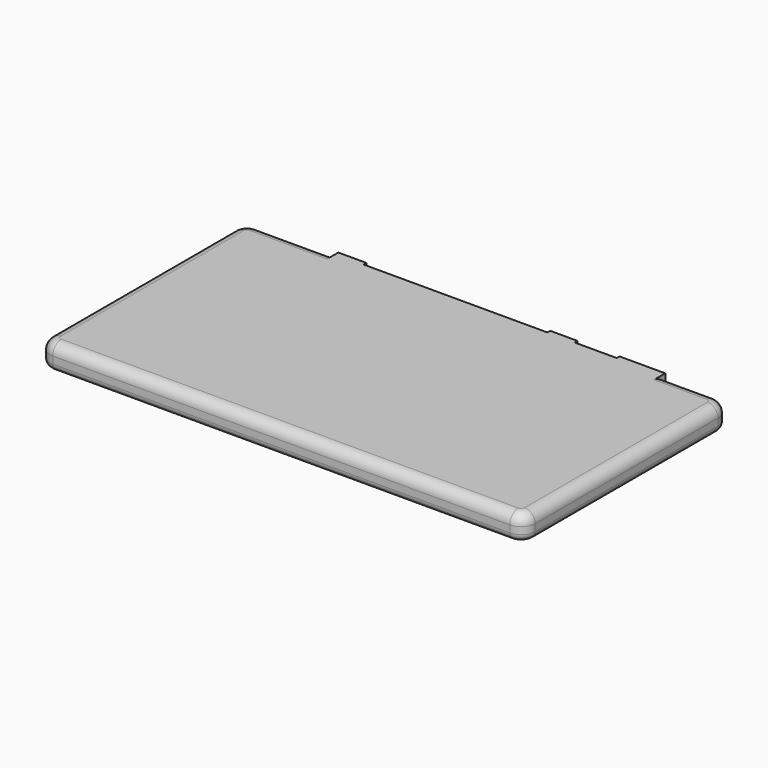
from build123d import *

# Parameters (mm, degrees)
F0_W     = 8
F0_H     = 1
F0_W_2   = 7.7403839678
F0_W_3   = 13
F1_DEPTH = 7
F2_R     = 3
F3_R     = 2


with BuildPart() as f1:
    # F0 (on Top) → F1 (new body)
    with BuildSketch(Plane.XY):
        with BuildLine():
            Line((-40.8660421073, 35.5213209987), (-62.8660421073, 35.5213209987))
            ThreePointArc((-62.8660421073, 35.5213209987), (-65.6944692321, 34.3497481234), (-66.8660421073, 31.5213209987))
            Line((-66.8660421073, 31.5213209987), (-66.8660421073, 5.6138705388))
            Line((-66.8660421073, 5.6138705388), (-65.8120451986, 5.6138705388))
            ThreePointArc((-65.8120451986, 5.6138705388), (-65.5673840665, 5.5125285796), (-65.4660421073, 5.2678674475))
            Line((-65.4660421073, 5.2678674475), (-65.4660421073, -2.04012637))
            ThreePointArc((-65.4660421073, -2.04012637), (-65.5673840665, -2.2847875021), (-65.8120451986, -2.3861294612))
            Line((-65.8120451986, -2.3861294612), (-66.8660421073, -2.3861294612))
            Line((-66.8660421073, -2.3861294612), (-66.8660421073, -33.4786790013))
            ThreePointArc((-66.8660421073, -33.4786790013), (-65.6944692321, -36.3071061261), (-62.8660421073, -37.4786790013))
            Line((-62.8660421073, -37.4786790013), (67.1339578927, -37.4786790013))
            ThreePointArc((67.1339578927, -37.4786790013), (69.9623850174, -36.3071061261), (71.1339578927, -33.4786790013))
            Line((71.1339578927, -33.4786790013), (71.1339578927, 31.5213209987))
            ThreePointArc((71.1339578927, 31.5213209987), (69.9623850174, 34.3497481234), (67.1339578927, 35.5213209987))
            Line((67.1339578927, 35.5213209987), (52.1339578927, 35.5213209987))
            Line((52.1339578927, 35.5213209987), (39.1339578927, 35.5213209987))
            Line((39.1339578927, 35.5213209987), (27.1339578927, 35.5213209987))
            Line((27.1339578927, 35.5213209987), (19.3935739249, 35.5213209987))
            Line((19.3935739249, 35.5213209987), (-32.8660421073, 35.5213209987))
            Line((-32.8660421073, 35.5213209987), (-40.8660421073, 35.5213209987))
        make_face()
        with Locations((-36.8660421073, 36.0213209987)):
            Rectangle(F0_W, F0_H)
        with BuildLine():
            Line((-65.8120451986, 5.6138705388), (-66.8660421073, 5.6138705388))
            Line((-66.8660421073, 5.6138705388), (-66.8660421073, -2.3861294612))
            Line((-66.8660421073, -2.3861294612), (-65.8120451986, -2.3861294612))
            ThreePointArc((-65.8120451986, -2.3861294612), (-65.5673840665, -2.2847875021), (-65.4660421073, -2.04012637))
            Line((-65.4660421073, -2.04012637), (-65.4660421073, 5.2678674475))
            ThreePointArc((-65.4660421073, 5.2678674475), (-65.5673840665, 5.5125285796), (-65.8120451986, 5.6138705388))
        make_face()
        with Locations((23.2637659088, 36.0213209987)):
            Rectangle(F0_W_2, F0_H)
        with Locations((45.6339578927, 36.0213209987)):
            Rectangle(F0_W_3, F0_H)
    extrude(amount=F1_DEPTH)

    # F2
    f2_edges = [f1.edges().sort_by_distance(p)[0] for p in [
        (2.133958, -37.478679, 7),
    ]]
    fillet(f2_edges, radius=F2_R)

    # F3
    f3_edges = [f1.edges().sort_by_distance(p)[0] for p in [
        (2.133958, -37.478679, 0),
        (-6.736234, 35.521321, 0),
        (33.133958, 35.521321, 0),
    ]]
    fillet(f3_edges, radius=F3_R)


solid = f1.part
